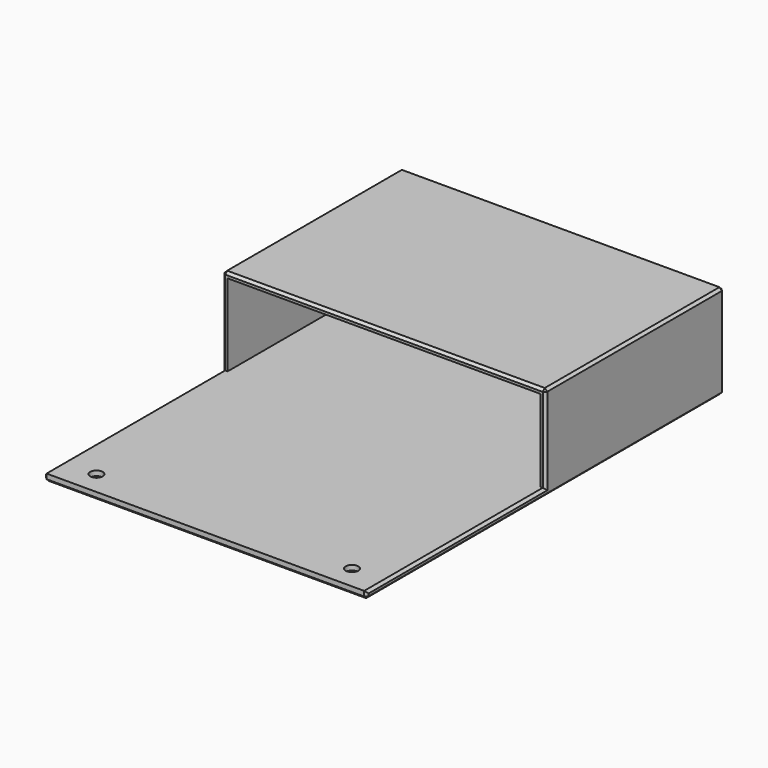
from build123d import *

# Parameters (mm, degrees)
F0_W     = 126
F0_H     = 88
F0_R     = 2.5
F1_DEPTH = 3
F2_DEPTH = 35
F3_START = 33
F3_DEPTH = 2
F4_SIZE  = 1


with BuildPart() as f1:
    # F0 (on Top) → F1 (new body)
    with BuildSketch(Plane.XY):
        with Locations((0, 44)):
            Rectangle(F0_W, F0_H)
        with Locations((-51.5, 80.5)):
            Circle(F0_R, mode=Mode.SUBTRACT)
        with Locations((51.5, 80.5)):
            Circle(F0_R, mode=Mode.SUBTRACT)
        Polygon((65, -90), (65, 0), (63, 0), (63, -88), (-63, -88), (-63, 0), (-65, 0), (-65, -90), align=None)
        Polygon((65, 0), (65, 90), (-65, 90), (-65, 0), (-63, 0), (-63, 88), (63, 88), (63, 0), align=None)
        with Locations((0, -44)):
            Rectangle(F0_W, F0_H)
        with Locations((-51.5, -80.5)):
            Circle(F0_R, mode=Mode.SUBTRACT)
        with Locations((51.5, -80.5)):
            Circle(F0_R, mode=Mode.SUBTRACT)
    extrude(amount=-F1_DEPTH)

    # F0 (on Top) → F2 (join)
    with BuildSketch(Plane.XY):
        Polygon((65, 0), (65, 90), (-65, 90), (-65, 0), (-63, 0), (-63, 88), (63, 88), (63, 0), align=None)
    extrude(amount=F2_DEPTH)

    # F0 (on Top) → F3 (join)
    with BuildSketch(Plane.XY.offset(F3_START)):
        with Locations((0, 44)):
            Rectangle(F0_W, F0_H)
        with Locations((-51.5, 80.5)):
            Circle(F0_R, mode=Mode.SUBTRACT)
        with Locations((51.5, 80.5)):
            Circle(F0_R, mode=Mode.SUBTRACT)
        Polygon((65, 0), (65, 90), (-65, 90), (-65, 0), (-63, 0), (-63, 88), (63, 88), (63, 0), align=None)
        with Locations((-51.5, 80.5)):
            Circle(F0_R)
        with Locations((51.5, 80.5)):
            Circle(F0_R)
    extrude(amount=F3_DEPTH)

    # F4
    f4_edges = [f1.edges().sort_by_distance(p)[0] for p in [
        (65, 45, 35),
        (0, 90, 35),
        (-65, 45, 35),
        (0, 0, 35),
        (-65, 0, -3),
        (-65, -90, -1.5),
        (-65, -45, 0),
        (-65, 0, 17.5),
        (-65, 90, 16),
        (65, 90, 16),
        (0, 90, -3),
        (65, -45, 0),
        (65, -90, -1.5),
        (65, 0, -3),
        (65, 0, 17.5),
        (-54, 80.5, -3),
        (49, 80.5, -3),
        (0, -90, -3),
        (-54, -80.5, -3),
        (49, -80.5, -3),
    ]]
    chamfer(f4_edges, length=F4_SIZE)


solid = f1.part
